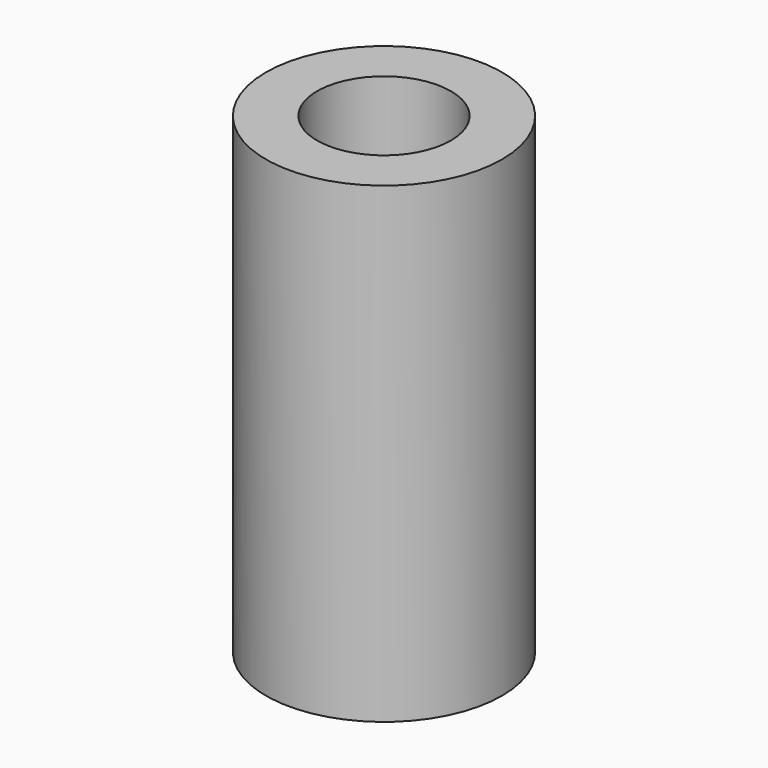
from build123d import *

# Parameters (mm, degrees)
SKETCH_R   = 7.5
SKETCH_R_2 = 4.25
PAD_DEPTH  = 30


with BuildPart() as part:
    # Sketch → Pad (new body)
    with BuildSketch(Plane.XY):
        Circle(SKETCH_R)
        Circle(SKETCH_R_2, mode=Mode.SUBTRACT)
    extrude(amount=PAD_DEPTH)


solid = part.part
